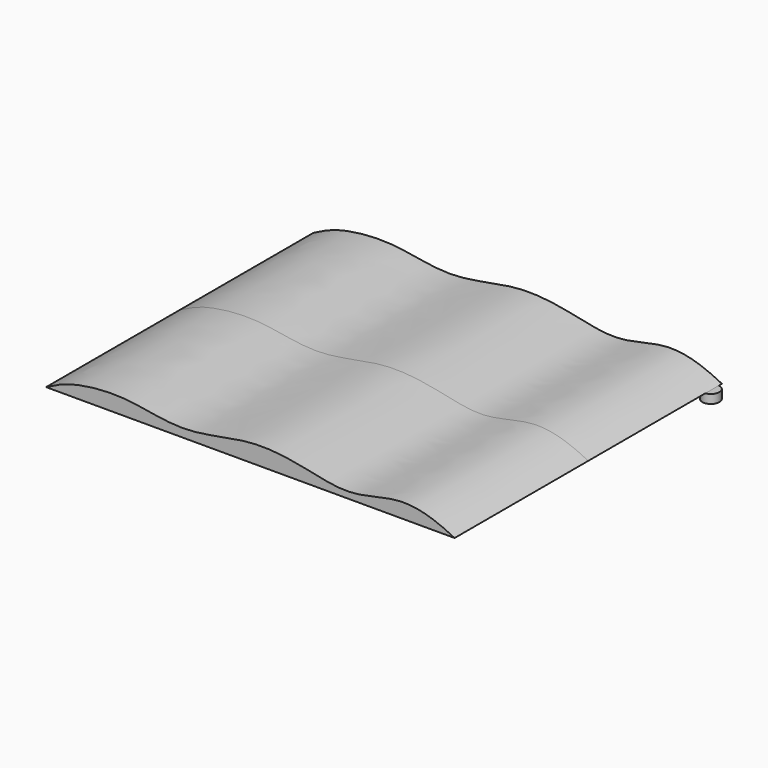
from build123d import *

# Parameters (mm, degrees)
F1_DEPTH = 190
F2_R     = 9.6816875959
F3_DEPTH = 10


with BuildPart() as f1:
    # F0 (on Front) → F1 (new body, symmetric)
    with BuildSketch(Plane.XZ):
        with BuildLine():
            add(Edge.make_bspline(
                [(0, 0), (12.362108633, 6.396624888), (28.8990480801, 14.1702198357), (89.6082703182, 21.9676535964), (157.1220707295, 2.2431354891), (230.2680153555, 24.8494351345), (292.1334738917, 16.1420329779), (347.811442061, 1.3393494272), (404.835035004, 23.867907853), (444.0697233586, 10.5052420607), (464.5879411074, 0)],
                knots=[0, 0, 0, 0, 0.0940525713, 0.2171358295, 0.3549232657, 0.4958900326, 0.6246225189, 0.7467636818, 0.8703846794, 1, 1, 1, 1], degree=3))
            Line((0, 0), (232.2939705537, 0))
            Line((232.2939705537, 0), (464.5879411074, 0))
        make_face()
    extrude(amount=F1_DEPTH, both=True)

    # F2 (on Top) → F3 (join)
    with BuildSketch(Plane.XY):
        with Locations((13.7648619711, 175.9635061026)):
            Circle(F2_R)
        with Locations((463.2954858243, 175.9635061026)):
            Circle(F2_R)
    extrude(amount=-F3_DEPTH)


solid = f1.part
